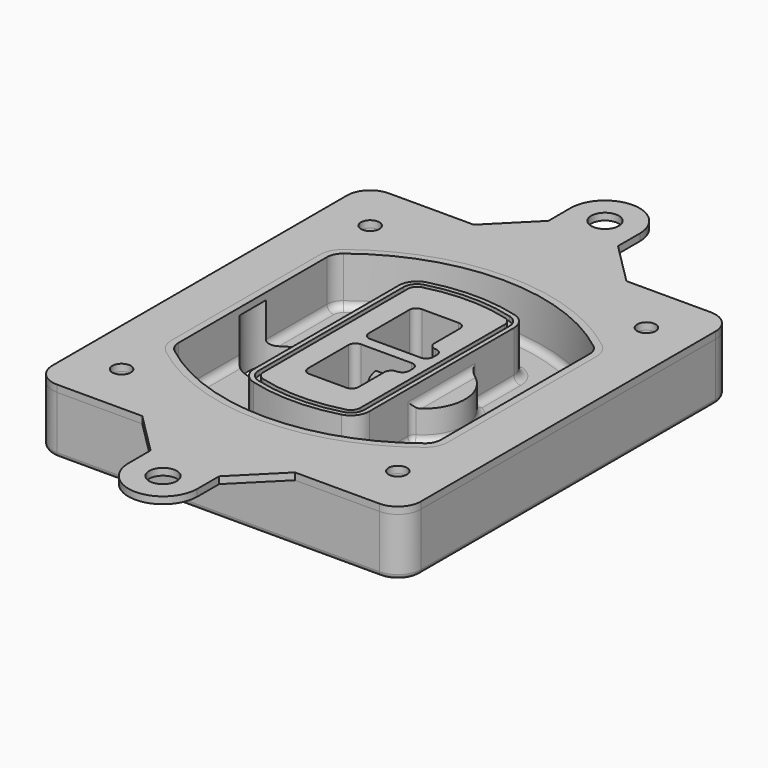
from build123d import *

# Parameters (mm, degrees)
F0_R      = 4
F1_DEPTH  = 25
F2_DEPTH  = 3
F3_DEPTH  = 18
F5_DEPTH  = 21
F6_DEPTH  = 2
F8_DEPTH  = 20
F9_DEPTH  = 16
F10_DEPTH = 25
F7_R      = 6
F7_R_2    = 4
F11_DEPTH = 6
F13_DEPTH = 9
F14_R     = 3
F15_R     = 2
F16_R     = 4
F16_R_2   = 6
F17_DEPTH = 3


with BuildPart() as f1:
    # F0 (on Top) → F1 (new body)
    with BuildSketch(Plane.XY):
        with BuildLine():
            ThreePointArc((-80, -80), (-77.0710678119, -87.0710678119), (-70, -90))
            Line((-70, -90), (70, -90))
            ThreePointArc((70, -90), (77.0710678119, -87.0710678119), (80, -80))
            Line((80, -80), (80, 80))
            ThreePointArc((80, 80), (77.0710678119, 87.0710678119), (70, 90))
            Line((70, 90), (-70, 90))
            ThreePointArc((-70, 90), (-77.0710678119, 87.0710678119), (-80, 80))
            Line((-80, 80), (-80, -80))
        make_face()
        with Locations((-60, -67.5)):
            Circle(F0_R, mode=Mode.SUBTRACT)
        with Locations((60, -67.5)):
            Circle(F0_R, mode=Mode.SUBTRACT)
        with Locations((-60, 67.5)):
            Circle(F0_R, mode=Mode.SUBTRACT)
        with BuildLine():
            ThreePointArc((-64, 40.2934422872), (-62.5820384798, 46.4328484224), (-58.6153846154, 51.3286200352))
            ThreePointArc((-58.6153846154, 51.3286200352), (0, 71.5), (58.6153846154, 51.3286200352))
            ThreePointArc((58.6153846154, 51.3286200352), (62.5820384798, 46.4328484224), (64, 40.2934422872))
            Line((64, 40.2934422872), (64, -40.2934422872))
            ThreePointArc((64, -40.2934422872), (62.5820384798, -46.4328484224), (58.6153846154, -51.3286200352))
            ThreePointArc((58.6153846154, -51.3286200352), (0, -71.5), (-58.6153846154, -51.3286200352))
            ThreePointArc((-58.6153846154, -51.3286200352), (-62.5820384798, -46.4328484224), (-64, -40.2934422872))
            Line((-64, -40.2934422872), (-64, 40.2934422872))
        make_face(mode=Mode.SUBTRACT)
        with Locations((60, 67.5)):
            Circle(F0_R, mode=Mode.SUBTRACT)
        with BuildLine():
            ThreePointArc((58.6153846154, 51.3286200352), (0, 71.5), (-58.6153846154, 51.3286200352))
            ThreePointArc((-58.6153846154, 51.3286200352), (-62.5820384798, 46.4328484224), (-64, 40.2934422872))
            Line((-64, 40.2934422872), (-64, -40.2934422872))
            ThreePointArc((-64, -40.2934422872), (-62.5820384798, -46.4328484224), (-58.6153846154, -51.3286200352))
            ThreePointArc((-58.6153846154, -51.3286200352), (0, -71.5), (58.6153846154, -51.3286200352))
            ThreePointArc((58.6153846154, -51.3286200352), (62.5820384798, -46.4328484224), (64, -40.2934422872))
            Line((64, -40.2934422872), (64, 40.2934422872))
            ThreePointArc((64, 40.2934422872), (62.5820384798, 46.4328484224), (58.6153846154, 51.3286200352))
        make_face()
        with BuildLine():
            Line((-60, -40.2934422872), (-60, 40.2934422872))
            ThreePointArc((-60, 40.2934422872), (-58.9871703427, 44.6787323838), (-56.1538461538, 48.1757121072))
            ThreePointArc((-56.1538461538, 48.1757121072), (0, 67.5), (56.1538461538, 48.1757121072))
            ThreePointArc((56.1538461538, 48.1757121072), (58.9871703427, 44.6787323838), (60, 40.2934422872))
            Line((60, 40.2934422872), (60, -40.2934422872))
            ThreePointArc((60, -40.2934422872), (58.9871703427, -44.6787323838), (56.1538461538, -48.1757121072))
            ThreePointArc((56.1538461538, -48.1757121072), (0, -67.5), (-56.1538461538, -48.1757121072))
            ThreePointArc((-56.1538461538, -48.1757121072), (-58.9871703427, -44.6787323838), (-60, -40.2934422872))
        make_face(mode=Mode.SUBTRACT)
        with BuildLine():
            ThreePointArc((-56.1538461538, 48.1757121072), (-58.9871703427, 44.6787323838), (-60, 40.2934422872))
            Line((-60, 40.2934422872), (-60, -40.2934422872))
            ThreePointArc((-60, -40.2934422872), (-58.9871703427, -44.6787323838), (-56.1538461538, -48.1757121072))
            ThreePointArc((-56.1538461538, -48.1757121072), (0, -67.5), (56.1538461538, -48.1757121072))
            ThreePointArc((56.1538461538, -48.1757121072), (58.9871703427, -44.6787323838), (60, -40.2934422872))
            Line((60, -40.2934422872), (60, 40.2934422872))
            ThreePointArc((60, 40.2934422872), (58.9871703427, 44.6787323838), (56.1538461538, 48.1757121072))
            ThreePointArc((56.1538461538, 48.1757121072), (0, 67.5), (-56.1538461538, 48.1757121072))
        make_face()
        with BuildLine():
            ThreePointArc((54.3076923077, 45.8110311612), (56.2910192399, 43.3631453548), (57, 40.2934422872))
            Line((57, 40.2934422872), (57, -40.2934422872))
            ThreePointArc((57, -40.2934422872), (56.2910192399, -43.3631453548), (54.3076923077, -45.8110311612))
            ThreePointArc((54.3076923077, -45.8110311612), (0, -64.5), (-54.3076923077, -45.8110311612))
            ThreePointArc((-54.3076923077, -45.8110311612), (-56.2910192399, -43.3631453548), (-57, -40.2934422872))
            Line((-57, -40.2934422872), (-57, 40.2934422872))
            ThreePointArc((-57, 40.2934422872), (-56.2910192399, 43.3631453548), (-54.3076923077, 45.8110311612))
            ThreePointArc((-54.3076923077, 45.8110311612), (0, 64.5), (54.3076923077, 45.8110311612))
        make_face(mode=Mode.SUBTRACT)
        with BuildLine():
            Line((57, -40.2934422872), (57, 40.2934422872))
            ThreePointArc((57, 40.2934422872), (56.2910192399, 43.3631453548), (54.3076923077, 45.8110311612))
            ThreePointArc((54.3076923077, 45.8110311612), (0, 64.5), (-54.3076923077, 45.8110311612))
            ThreePointArc((-54.3076923077, 45.8110311612), (-56.2910192399, 43.3631453548), (-57, 40.2934422872))
            Line((-57, 40.2934422872), (-57, -40.2934422872))
            ThreePointArc((-57, -40.2934422872), (-56.2910192399, -43.3631453548), (-54.3076923077, -45.8110311612))
            ThreePointArc((-54.3076923077, -45.8110311612), (0, -64.5), (54.3076923077, -45.8110311612))
            ThreePointArc((54.3076923077, -45.8110311612), (56.2910192399, -43.3631453548), (57, -40.2934422872))
        make_face()
    extrude(amount=-F1_DEPTH)

    # F0 (on Top) → F2 (join)
    with BuildSketch(Plane.XY):
        with BuildLine():
            ThreePointArc((-56.1538461538, 48.1757121072), (-58.9871703427, 44.6787323838), (-60, 40.2934422872))
            Line((-60, 40.2934422872), (-60, -40.2934422872))
            ThreePointArc((-60, -40.2934422872), (-58.9871703427, -44.6787323838), (-56.1538461538, -48.1757121072))
            ThreePointArc((-56.1538461538, -48.1757121072), (0, -67.5), (56.1538461538, -48.1757121072))
            ThreePointArc((56.1538461538, -48.1757121072), (58.9871703427, -44.6787323838), (60, -40.2934422872))
            Line((60, -40.2934422872), (60, 40.2934422872))
            ThreePointArc((60, 40.2934422872), (58.9871703427, 44.6787323838), (56.1538461538, 48.1757121072))
            ThreePointArc((56.1538461538, 48.1757121072), (0, 67.5), (-56.1538461538, 48.1757121072))
        make_face()
        with BuildLine():
            ThreePointArc((54.3076923077, 45.8110311612), (56.2910192399, 43.3631453548), (57, 40.2934422872))
            Line((57, 40.2934422872), (57, -40.2934422872))
            ThreePointArc((57, -40.2934422872), (56.2910192399, -43.3631453548), (54.3076923077, -45.8110311612))
            ThreePointArc((54.3076923077, -45.8110311612), (0, -64.5), (-54.3076923077, -45.8110311612))
            ThreePointArc((-54.3076923077, -45.8110311612), (-56.2910192399, -43.3631453548), (-57, -40.2934422872))
            Line((-57, -40.2934422872), (-57, 40.2934422872))
            ThreePointArc((-57, 40.2934422872), (-56.2910192399, 43.3631453548), (-54.3076923077, 45.8110311612))
            ThreePointArc((-54.3076923077, 45.8110311612), (0, 64.5), (54.3076923077, 45.8110311612))
        make_face(mode=Mode.SUBTRACT)
    extrude(amount=F2_DEPTH)

    # F0 (on Top) → F3 (cut)
    with BuildSketch(Plane.XY):
        with BuildLine():
            Line((57, -40.2934422872), (57, 40.2934422872))
            ThreePointArc((57, 40.2934422872), (56.2910192399, 43.3631453548), (54.3076923077, 45.8110311612))
            ThreePointArc((54.3076923077, 45.8110311612), (0, 64.5), (-54.3076923077, 45.8110311612))
            ThreePointArc((-54.3076923077, 45.8110311612), (-56.2910192399, 43.3631453548), (-57, 40.2934422872))
            Line((-57, 40.2934422872), (-57, -40.2934422872))
            ThreePointArc((-57, -40.2934422872), (-56.2910192399, -43.3631453548), (-54.3076923077, -45.8110311612))
            ThreePointArc((-54.3076923077, -45.8110311612), (0, -64.5), (54.3076923077, -45.8110311612))
            ThreePointArc((54.3076923077, -45.8110311612), (56.2910192399, -43.3631453548), (57, -40.2934422872))
        make_face()
    extrude(amount=-F3_DEPTH, mode=Mode.SUBTRACT)

    # F4 (on face) → F5 (join, through all)
    with BuildSketch(Plane.XY.offset(3)):
        with BuildLine():
            ThreePointArc((-25, -39.2465276821), (-23.3511545998, -44.1109737193), (-19.0842911877, -46.9702398883))
            ThreePointArc((-19.0842911877, -46.9702398883), (0, -49.5), (19.0842911877, -46.9702398883))
            ThreePointArc((19.0842911877, -46.9702398883), (23.3511545998, -44.1109737193), (25, -39.2465276821))
            Line((25, -39.2465276821), (25, 39.2465276821))
            ThreePointArc((25, 39.2465276821), (23.3511545998, 44.1109737193), (19.0842911877, 46.9702398883))
            ThreePointArc((19.0842911877, 46.9702398883), (0, 49.5), (-19.0842911877, 46.9702398883))
            ThreePointArc((-19.0842911877, 46.9702398883), (-23.3511545998, 44.1109737193), (-25, 39.2465276821))
            Line((-25, 39.2465276821), (-25, -39.2465276821))
        make_face()
        with BuildLine():
            ThreePointArc((18.5632183908, 45.0393118368), (21.7633659499, 42.89486221), (23, 39.2465276821))
            Line((23, 39.2465276821), (23, -39.2465276821))
            ThreePointArc((23, -39.2465276821), (21.7633659499, -42.89486221), (18.5632183908, -45.0393118368))
            ThreePointArc((18.5632183908, -45.0393118368), (0, -47.5), (-18.5632183908, -45.0393118368))
            ThreePointArc((-18.5632183908, -45.0393118368), (-21.7633659499, -42.89486221), (-23, -39.2465276821))
            Line((-23, -39.2465276821), (-23, 39.2465276821))
            ThreePointArc((-23, 39.2465276821), (-21.7633659499, 42.89486221), (-18.5632183908, 45.0393118368))
            ThreePointArc((-18.5632183908, 45.0393118368), (0, 47.5), (18.5632183908, 45.0393118368))
        make_face(mode=Mode.SUBTRACT)
        with BuildLine():
            Line((23, -39.2465276821), (23, 39.2465276821))
            ThreePointArc((23, 39.2465276821), (21.7633659499, 42.89486221), (18.5632183908, 45.0393118368))
            ThreePointArc((18.5632183908, 45.0393118368), (0, 47.5), (-18.5632183908, 45.0393118368))
            ThreePointArc((-18.5632183908, 45.0393118368), (-21.7633659499, 42.89486221), (-23, 39.2465276821))
            Line((-23, 39.2465276821), (-23, -39.2465276821))
            ThreePointArc((-23, -39.2465276821), (-21.7633659499, -42.89486221), (-18.5632183908, -45.0393118368))
            ThreePointArc((-18.5632183908, -45.0393118368), (0, -47.5), (18.5632183908, -45.0393118368))
            ThreePointArc((18.5632183908, -45.0393118368), (21.7633659499, -42.89486221), (23, -39.2465276821))
        make_face()
        with BuildLine():
            ThreePointArc((18.0421455939, 43.1083837852), (20.1755772999, 41.6787507007), (21, 39.2465276821))
            Line((21, 39.2465276821), (21, -39.2465276821))
            ThreePointArc((21, -39.2465276821), (20.1755772999, -41.6787507007), (18.0421455939, -43.1083837852))
            ThreePointArc((18.0421455939, -43.1083837852), (0, -45.5), (-18.0421455939, -43.1083837852))
            ThreePointArc((-18.0421455939, -43.1083837852), (-20.1755772999, -41.6787507007), (-21, -39.2465276821))
            Line((-21, -39.2465276821), (-21, 39.2465276821))
            ThreePointArc((-21, 39.2465276821), (-20.1755772999, 41.6787507007), (-18.0421455939, 43.1083837852))
            ThreePointArc((-18.0421455939, 43.1083837852), (0, 45.5), (18.0421455939, 43.1083837852))
        make_face(mode=Mode.SUBTRACT)
        with BuildLine():
            Line((21, -39.2465276821), (21, 39.2465276821))
            ThreePointArc((21, 39.2465276821), (20.1755772999, 41.6787507007), (18.0421455939, 43.1083837852))
            ThreePointArc((18.0421455939, 43.1083837852), (0, 45.5), (-18.0421455939, 43.1083837852))
            ThreePointArc((-18.0421455939, 43.1083837852), (-20.1755772999, 41.6787507007), (-21, 39.2465276821))
            Line((-21, 39.2465276821), (-21, -39.2465276821))
            ThreePointArc((-21, -39.2465276821), (-20.1755772999, -41.6787507007), (-18.0421455939, -43.1083837852))
            ThreePointArc((-18.0421455939, -43.1083837852), (0, -45.5), (18.0421455939, -43.1083837852))
            ThreePointArc((18.0421455939, -43.1083837852), (20.1755772999, -41.6787507007), (21, -39.2465276821))
        make_face()
        with BuildLine():
            Line((-8, -2.5), (14, -2.5))
            ThreePointArc((14, -2.5), (16.1213203436, -3.3786796564), (17, -5.5))
            Line((17, -5.5), (17, -7.5))
            ThreePointArc((17, -7.5), (16.1213203436, -9.6213203436), (14, -10.5))
            ThreePointArc((14, -10.5), (11.8786796564, -11.3786796564), (11, -13.5))
            Line((11, -13.5), (11, -27.5))
            ThreePointArc((11, -27.5), (10.1213203436, -29.6213203436), (8, -30.5))
            Line((8, -30.5), (-8, -30.5))
            ThreePointArc((-8, -30.5), (-10.1213203436, -29.6213203436), (-11, -27.5))
            Line((-11, -27.5), (-11, -5.5))
            ThreePointArc((-11, -5.5), (-10.1213203436, -3.3786796564), (-8, -2.5))
        make_face(mode=Mode.SUBTRACT)
        with BuildLine():
            ThreePointArc((-8, 2.5), (-10.1213203436, 3.3786796564), (-11, 5.5))
            Line((-11, 5.5), (-11, 27.5))
            ThreePointArc((-11, 27.5), (-10.1213203436, 29.6213203436), (-8, 30.5))
            Line((-8, 30.5), (8, 30.5))
            ThreePointArc((8, 30.5), (10.1213203436, 29.6213203436), (11, 27.5))
            Line((11, 27.5), (11, 13.5))
            ThreePointArc((11, 13.5), (11.8786796564, 11.3786796564), (14, 10.5))
            ThreePointArc((14, 10.5), (16.1213203436, 9.6213203436), (17, 7.5))
            Line((17, 7.5), (17, 5.5))
            ThreePointArc((17, 5.5), (16.1213203436, 3.3786796564), (14, 2.5))
            Line((14, 2.5), (-8, 2.5))
        make_face(mode=Mode.SUBTRACT)
    extrude(amount=-F5_DEPTH)

    # F4 (on face) → F6 (cut)
    with BuildSketch(Plane.XY.offset(3)):
        with BuildLine():
            Line((23, -39.2465276821), (23, 39.2465276821))
            ThreePointArc((23, 39.2465276821), (21.7633659499, 42.89486221), (18.5632183908, 45.0393118368))
            ThreePointArc((18.5632183908, 45.0393118368), (0, 47.5), (-18.5632183908, 45.0393118368))
            ThreePointArc((-18.5632183908, 45.0393118368), (-21.7633659499, 42.89486221), (-23, 39.2465276821))
            Line((-23, 39.2465276821), (-23, -39.2465276821))
            ThreePointArc((-23, -39.2465276821), (-21.7633659499, -42.89486221), (-18.5632183908, -45.0393118368))
            ThreePointArc((-18.5632183908, -45.0393118368), (0, -47.5), (18.5632183908, -45.0393118368))
            ThreePointArc((18.5632183908, -45.0393118368), (21.7633659499, -42.89486221), (23, -39.2465276821))
        make_face()
        with BuildLine():
            ThreePointArc((18.0421455939, 43.1083837852), (20.1755772999, 41.6787507007), (21, 39.2465276821))
            Line((21, 39.2465276821), (21, -39.2465276821))
            ThreePointArc((21, -39.2465276821), (20.1755772999, -41.6787507007), (18.0421455939, -43.1083837852))
            ThreePointArc((18.0421455939, -43.1083837852), (0, -45.5), (-18.0421455939, -43.1083837852))
            ThreePointArc((-18.0421455939, -43.1083837852), (-20.1755772999, -41.6787507007), (-21, -39.2465276821))
            Line((-21, -39.2465276821), (-21, 39.2465276821))
            ThreePointArc((-21, 39.2465276821), (-20.1755772999, 41.6787507007), (-18.0421455939, 43.1083837852))
            ThreePointArc((-18.0421455939, 43.1083837852), (0, 45.5), (18.0421455939, 43.1083837852))
        make_face(mode=Mode.SUBTRACT)
    extrude(amount=-F6_DEPTH, mode=Mode.SUBTRACT)

    # F7 (on face) → F8 (join)
    with BuildSketch(Plane(origin=(0, 0, -25), x_dir=(1, 0, 0), z_dir=(0, 0, -1))):
        with BuildLine():
            ThreePointArc((3.28842436, 0), (16.7567035675, 13.4682792075), (30.224982775, 0))
            Line((30.224982775, 0), (35.224982775, 0))
            ThreePointArc((35.224982775, 0), (16.7567035675, 18.4682792075), (-1.71157564, 0))
            Line((-1.71157564, 0), (3.28842436, 0))
        make_face()
        with BuildLine():
            Line((3.28842436, 0), (30.224982775, 0))
            ThreePointArc((30.224982775, 0), (16.7567035675, 13.4682792075), (3.28842436, 0))
        make_face()
        with BuildLine():
            ThreePointArc((3.28842436, 0), (16.7567035675, -13.4682792075), (30.224982775, 0))
            Line((30.224982775, 0), (3.28842436, 0))
        make_face()
        with BuildLine():
            Line((35.224982775, 0), (30.224982775, 0))
            ThreePointArc((30.224982775, 0), (16.7567035675, -13.4682792075), (3.28842436, 0))
            Line((3.28842436, 0), (-1.71157564, 0))
            ThreePointArc((-1.71157564, 0), (16.7567035675, -18.4682792075), (35.224982775, 0))
        make_face()
    extrude(amount=-F8_DEPTH)

    # F7 (on face) → F9 (cut)
    with BuildSketch(Plane(origin=(0, 0, -25), x_dir=(1, 0, 0), z_dir=(0, 0, -1))):
        with BuildLine():
            Line((3.28842436, 0), (30.224982775, 0))
            ThreePointArc((30.224982775, 0), (16.7567035675, 13.4682792075), (3.28842436, 0))
        make_face()
        with BuildLine():
            ThreePointArc((3.28842436, 0), (16.7567035675, -13.4682792075), (30.224982775, 0))
            Line((30.224982775, 0), (3.28842436, 0))
        make_face()
    extrude(amount=-F9_DEPTH, mode=Mode.SUBTRACT)

    # F7 (on face) → F10 (cut)
    with BuildSketch(Plane(origin=(0, 0, -25), x_dir=(1, 0, 0), z_dir=(0, 0, -1))):
        with BuildLine():
            Line((-59.0318229325, 0), (-32.0952645175, 0))
            ThreePointArc((-32.0952645175, 0), (-45.563543725, 13.4682792075), (-59.0318229325, 0))
        make_face()
        with BuildLine():
            ThreePointArc((-59.0318229325, 0), (-45.563543725, -13.4682792075), (-32.0952645175, 0))
            Line((-32.0952645175, 0), (-59.0318229325, 0))
        make_face()
    extrude(amount=-F10_DEPTH, mode=Mode.SUBTRACT)

    # F7 (on face) → F11 (cut)
    with BuildSketch(Plane(origin=(0, 0, -25), x_dir=(1, 0, 0), z_dir=(0, 0, -1))):
        with Locations((60, -67.5)):
            Circle(F7_R)
        with Locations((60, -67.5)):
            Circle(F7_R_2, mode=Mode.SUBTRACT)
        with Locations((60, -67.5)):
            Circle(F7_R)
        with Locations((60, -67.5)):
            Circle(F7_R_2, mode=Mode.SUBTRACT)
        with Locations((-60, -67.5)):
            Circle(F7_R)
        with Locations((-60, -67.5)):
            Circle(F7_R_2, mode=Mode.SUBTRACT)
        with Locations((-60, -67.5)):
            Circle(F7_R)
        with Locations((-60, -67.5)):
            Circle(F7_R_2, mode=Mode.SUBTRACT)
        with Locations((-60, 67.5)):
            Circle(F7_R)
        with Locations((-60, 67.5)):
            Circle(F7_R_2, mode=Mode.SUBTRACT)
        with Locations((-60, 67.5)):
            Circle(F7_R)
        with Locations((-60, 67.5)):
            Circle(F7_R_2, mode=Mode.SUBTRACT)
        with Locations((60, 67.5)):
            Circle(F7_R)
        with Locations((60, 67.5)):
            Circle(F7_R_2, mode=Mode.SUBTRACT)
        with Locations((60, 67.5)):
            Circle(F7_R)
        with Locations((60, 67.5)):
            Circle(F7_R_2, mode=Mode.SUBTRACT)
    extrude(amount=-F11_DEPTH, mode=Mode.SUBTRACT)

    # F12 (on face) → F13 (cut, through all)
    with BuildSketch(Plane(origin=(0, 0, -9), x_dir=(1, 0, 0), z_dir=(0, 0, -1))):
        with BuildLine():
            Line((11, 13.5), (11, 17.5481537753))
            ThreePointArc((11, 17.5481537753), (2.5696536419, 11.8239143813), (-1.5415842455, 2.5))
            Line((-1.5415842455, 2.5), (3.5224848595, 2.5))
            ThreePointArc((3.5224848595, 2.5), (6.1857188154, 8.3455872281), (11.2536447004, 12.2927168648))
            ThreePointArc((11.2536447004, 12.2927168648), (11.0640958889, 12.8831798879), (11, 13.5))
        make_face()
        with BuildLine():
            ThreePointArc((11.2536447004, -12.2927168648), (6.1857188154, -8.3455872281), (3.5224848595, -2.5))
            Line((3.5224848595, -2.5), (-1.5415842455, -2.5))
            ThreePointArc((-1.5415842455, -2.5), (2.5696536419, -11.8239143813), (11, -17.5481537753))
            Line((11, -17.5481537753), (11, -13.5))
            ThreePointArc((11, -13.5), (11.0640958889, -12.8831798879), (11.2536447004, -12.2927168648))
        make_face()
        with BuildLine():
            ThreePointArc((11.2536447004, 12.2927168648), (6.1857188154, 8.3455872281), (3.5224848595, 2.5))
            Line((3.5224848595, 2.5), (14, 2.5))
            ThreePointArc((14, 2.5), (16.1213203436, 3.3786796564), (17, 5.5))
            Line((17, 5.5), (17, 7.5))
            ThreePointArc((17, 7.5), (16.1213203436, 9.6213203436), (14, 10.5))
            ThreePointArc((14, 10.5), (12.3601599782, 10.9878446101), (11.2536447004, 12.2927168648))
        make_face()
        with BuildLine():
            Line((14, -2.5), (3.5224848595, -2.5))
            ThreePointArc((3.5224848595, -2.5), (6.1857188154, -8.3455872281), (11.2536447004, -12.2927168648))
            ThreePointArc((11.2536447004, -12.2927168648), (12.3601599782, -10.9878446101), (14, -10.5))
            ThreePointArc((14, -10.5), (16.1213203436, -9.6213203436), (17, -7.5))
            Line((17, -7.5), (17, -5.5))
            ThreePointArc((17, -5.5), (16.1213203436, -3.3786796564), (14, -2.5))
        make_face()
    extrude(amount=F13_DEPTH, mode=Mode.SUBTRACT)

    # F14
    f14_edges = [f1.edges().sort_by_distance(p)[0] for p in [
        (-57, -23.703476, -18),
        (-57, 23.703476, -18),
        (25, 0, -5),
        (25, 16.526506, -11.5),
        (25, -16.526506, -11.5),
        (25, -27.886517, -18),
        (35.224983, 0, -18),
    ]]
    fillet(f14_edges, radius=F14_R)

    # F15
    f15_edges = [f1.edges().sort_by_distance(p)[0] for p in [
        (0, -90, -25),
    ]]
    fillet(f15_edges, radius=F15_R)


with BuildPart() as f17:
    # F16 (on face) → F17 (new body, through all)
    with BuildSketch(Plane.XY):
        with BuildLine():
            Line((33.3009064054, 90), (-33, 90))
            Line((-33, 90), (-70, 90))
            ThreePointArc((-70, 90), (-77.0710678119, 87.0710678119), (-80, 80))
            Line((-80, 80), (-80, -80))
            ThreePointArc((-80, -80), (-77.0710678119, -87.0710678119), (-70, -90))
            Line((-70, -90), (-33, -90))
            Line((-33, -90), (33.3009064054, -90))
            Line((33.3009064054, -90), (70, -90))
            ThreePointArc((70, -90), (77.0710678119, -87.0710678119), (80, -80))
            Line((80, -80), (80, 80))
            ThreePointArc((80, 80), (77.0710678119, 87.0710678119), (70, 90))
            Line((70, 90), (33.3009064054, 90))
        make_face()
        with Locations((-60, -67.5)):
            Circle(F16_R, mode=Mode.SUBTRACT)
        with Locations((60, -67.5)):
            Circle(F16_R, mode=Mode.SUBTRACT)
        with Locations((-60, 67.5)):
            Circle(F16_R, mode=Mode.SUBTRACT)
        with BuildLine():
            ThreePointArc((-60, 40.2934422872), (-58.9871703427, 44.6787323838), (-56.1538461538, 48.1757121072))
            ThreePointArc((-56.1538461538, 48.1757121072), (0, 67.5), (56.1538461538, 48.1757121072))
            ThreePointArc((56.1538461538, 48.1757121072), (58.9871703427, 44.6787323838), (60, 40.2934422872))
            Line((60, 40.2934422872), (60, -40.2934422872))
            ThreePointArc((60, -40.2934422872), (58.9871703427, -44.6787323838), (56.1538461538, -48.1757121072))
            ThreePointArc((56.1538461538, -48.1757121072), (0, -67.5), (-56.1538461538, -48.1757121072))
            ThreePointArc((-56.1538461538, -48.1757121072), (-58.9871703427, -44.6787323838), (-60, -40.2934422872))
            Line((-60, -40.2934422872), (-60, 40.2934422872))
        make_face(mode=Mode.SUBTRACT)
        with Locations((60, 67.5)):
            Circle(F16_R, mode=Mode.SUBTRACT)
        with BuildLine():
            Line((-15, 108), (-33, 90))
            Line((-33, 90), (33.3009064054, 90))
            Line((33.3009064054, 90), (14.996919414, 108.3039869914))
            Line((14.996919414, 108.3039869914), (14.996919414, 120.3039869914))
            ThreePointArc((14.996919414, 120.3039869914), (-0.1520013001, 134.9992298337), (-15, 120))
            Line((-15, 120), (-15, 108))
        make_face()
        with Locations((0, 120)):
            Circle(F16_R_2, mode=Mode.SUBTRACT)
        with BuildLine():
            Line((33.3009064054, -90), (-33, -90))
            Line((-33, -90), (-15, -108))
            Line((-15, -108), (-15, -120))
            ThreePointArc((-15, -120), (-0.1520013001, -134.9992298337), (14.996919414, -120.3039869914))
            Line((14.996919414, -120.3039869914), (14.996919414, -108.3039869914))
            Line((14.996919414, -108.3039869914), (33.3009064054, -90))
        make_face()
        with Locations((0, -120)):
            Circle(F16_R_2, mode=Mode.SUBTRACT)
    extrude(amount=F17_DEPTH)


solid = Compound([f1.part, f17.part])
